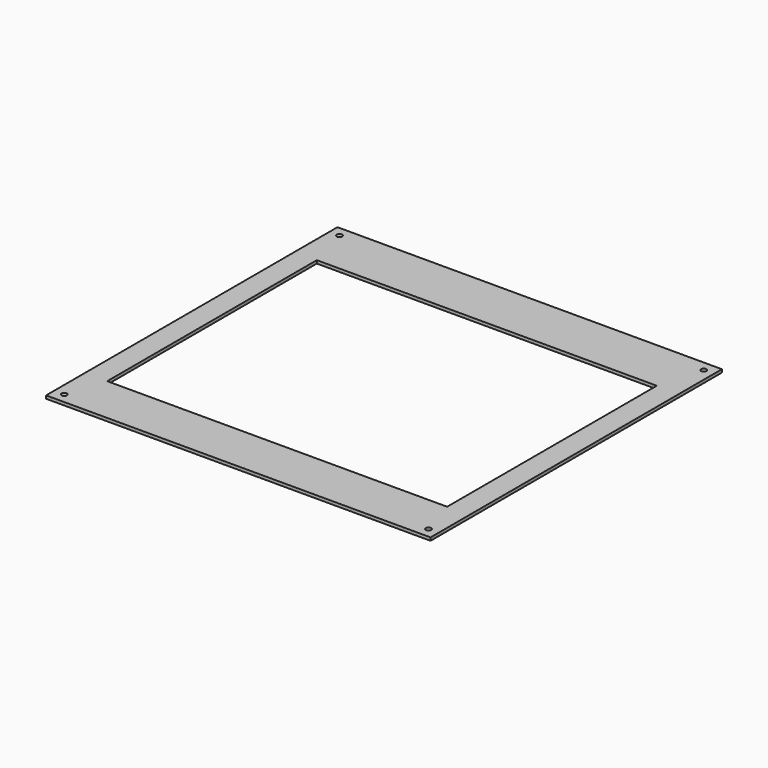
from build123d import *

# Parameters (mm, degrees)
F0_W     = 380
F0_H     = 360
F0_R     = 2.65
F0_W_2   = 336
F0_H_2   = 259
F1_DEPTH = 3


with BuildPart() as f1:
    # F0 (on Top) → F1 (new body)
    with BuildSketch(Plane.XY):
        Rectangle(F0_W, F0_H)
        with Locations((-180, -170)):
            Circle(F0_R, mode=Mode.SUBTRACT)
        with Locations((180, -170)):
            Circle(F0_R, mode=Mode.SUBTRACT)
        with Locations((0, -2.5)):
            Rectangle(F0_W_2, F0_H_2, mode=Mode.SUBTRACT)
        with Locations((-180, 170)):
            Circle(F0_R, mode=Mode.SUBTRACT)
        with Locations((180, 170)):
            Circle(F0_R, mode=Mode.SUBTRACT)
    extrude(amount=F1_DEPTH)


solid = f1.part
